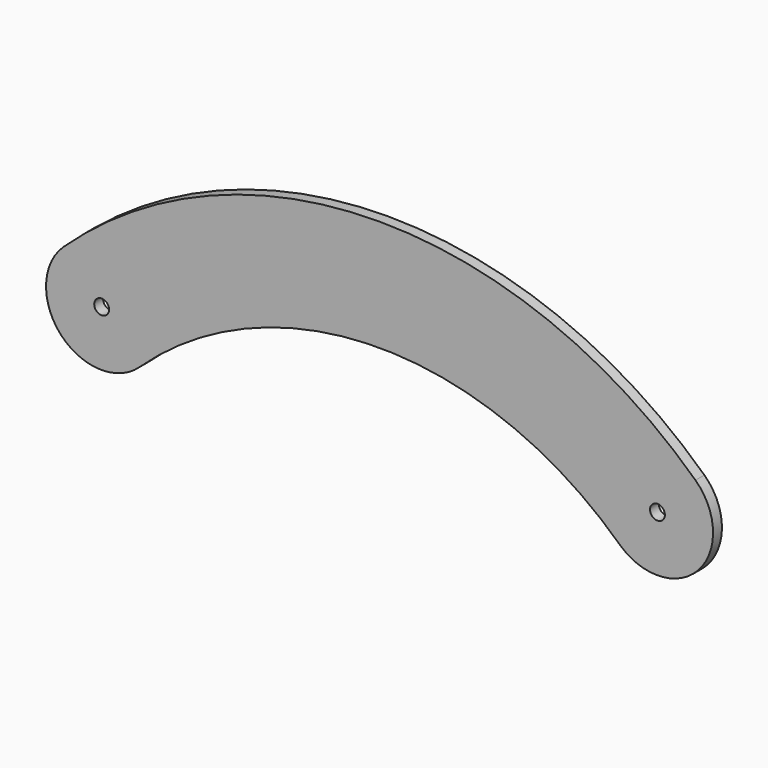
from build123d import *

# Parameters (mm, degrees)
F1_R     = 2
F2_DEPTH = 1.5


with BuildPart() as f2:
    # F1 (on Front) → F2 (new body, symmetric)
    with BuildSketch(Plane.XZ):
        with BuildLine():
            ThreePointArc((-64.7408830668, -10.9430580621), (0, 14.6585609973), (64.7408830668, -10.9430580621))
            ThreePointArc((64.7408830668, -10.9430580621), (85.9430580621, -10.2591169332), (85.2591169332, 10.9430580621))
            ThreePointArc((85.2591169332, 10.9430580621), (0, 44.6585609973), (-85.2591169332, 10.9430580621))
            ThreePointArc((-85.2591169332, 10.9430580621), (-85.9430580621, -10.2591169332), (-64.7408830668, -10.9430580621))
        make_face()
        with Locations((-75, 0)):
            Circle(F1_R, mode=Mode.SUBTRACT)
        with Locations((75, 0)):
            Circle(F1_R, mode=Mode.SUBTRACT)
    extrude(amount=F2_DEPTH, both=True)


solid = f2.part
